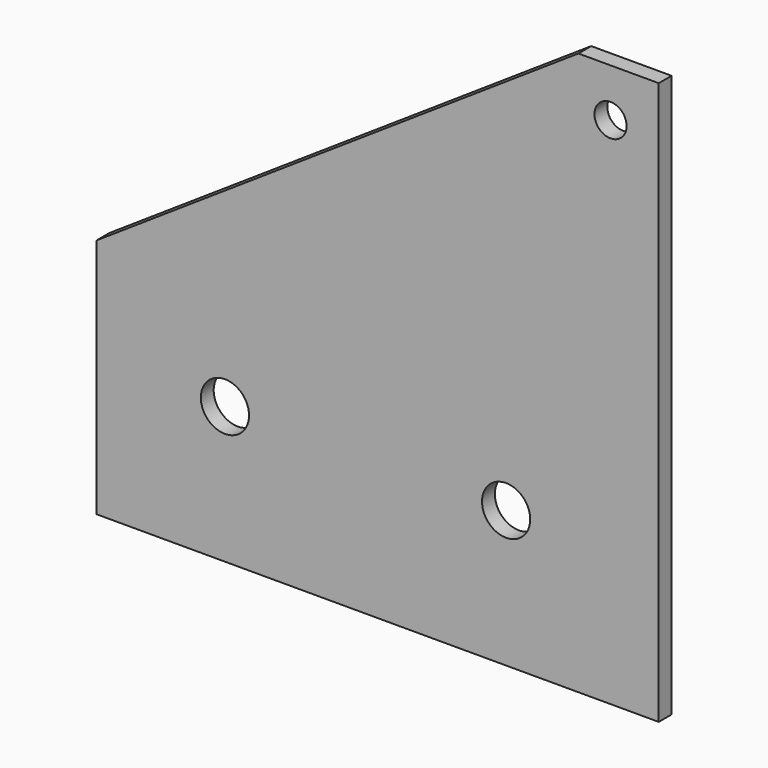
from build123d import *

# Parameters (mm, degrees)
F0_R     = 3
F0_R_2   = 2
F1_DEPTH = 2


with BuildPart() as f1:
    # F0 (on Front) → F1 (new body)
    with BuildSketch(Plane.XZ):
        Polygon((-24.489924, 30), (-24.489924, 0), (45.510076, 0), (45.510076, 70), (35.510076, 70), align=None)
        with Locations((-8.489924, 17)):
            Circle(F0_R, mode=Mode.SUBTRACT)
        with Locations((26.510076, 17)):
            Circle(F0_R, mode=Mode.SUBTRACT)
        with Locations((39.510076, 64)):
            Circle(F0_R_2, mode=Mode.SUBTRACT)
    extrude(amount=F1_DEPTH)


solid = f1.part
